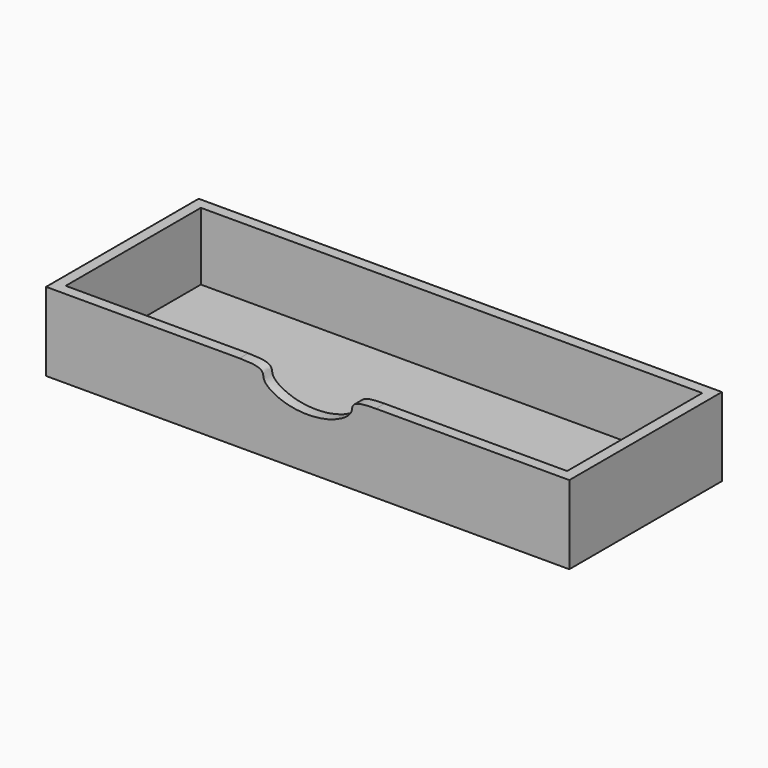
from build123d import *

# Parameters (mm, degrees)
F0_W     = 960
F0_H     = 350
F1_DEPTH = 144
F2_W     = 920
F2_H     = 310
F3_DEPTH = 124
F5_DEPTH = 20


with BuildPart() as f1:
    # F0 (on Top) → F1 (new body)
    with BuildSketch(Plane.XY):
        Rectangle(F0_W, F0_H)
    extrude(amount=F1_DEPTH)

    # F2 (on face) → F3 (cut)
    with BuildSketch(Plane.XY.offset(144)):
        Rectangle(F2_W, F2_H)
    extrude(amount=-F3_DEPTH, mode=Mode.SUBTRACT)

    # F4 (on face) → F5 (cut)
    with BuildSketch(Plane.XZ.offset(175)):
        with BuildLine():
            Line((125, 144), (-125, 144))
            add(Edge.make_bspline(
                [(-125, 144), (-75, 144), (-93.0105845008, 124.1732701609), (-37.6218932166, 91.8329972806), (37.6218932166, 91.8329972806), (93.0105845008, 124.1732701609), (75, 144), (125, 144)],
                knots=[0, 0, 0, 0, 0.1911314136, 0.3781938731, 0.6218061269, 0.8088685864, 1, 1, 1, 1], degree=3))
        make_face()
    extrude(amount=-F5_DEPTH, mode=Mode.SUBTRACT)


solid = f1.part
